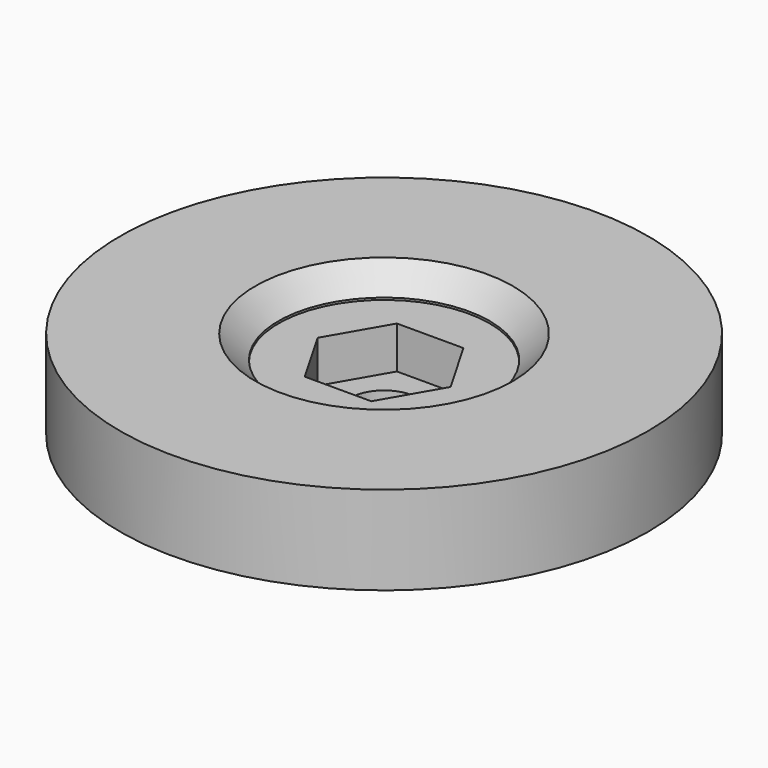
from build123d import *

# Parameters (mm, degrees)
BOX031_W          = 40
BOX031_H          = 50
BOX031_DEPTH      = 1.4
CYLINDER070_R     = 5
CYLINDER070_DEPTH = 22.75
CYLINDER069_R     = 1.6
CYLINDER069_DEPTH = 22.75
BOX029_W          = 40
BOX029_H          = 50
BOX029_DEPTH      = 10
BOX030_W          = 40
BOX030_H          = 50
BOX030_DEPTH      = 2.3
CYLINDER067_R     = 12.5
CYLINDER067_DEPTH = 7
BOX028_W          = 40
BOX028_H          = 50
BOX028_DEPTH      = 0.7
CYLINDER066_R     = 4
CYLINDER066_DEPTH = 2.75
CYLINDER064_R     = 1.6
CYLINDER064_DEPTH = 22.75
CYLINDER063_R     = 4
CYLINDER063_DEPTH = 2.75
PRISM009_DEPTH    = 3
CYLINDER065_R     = 12.5
CYLINDER065_DEPTH = 7
CHAMFER001_SIZE   = 2.4


with BuildPart() as cube031:
    # Box031 → Box031 (new body)
    with BuildSketch(Plane(origin=(-10, 0, 22.2), x_dir=(1, 0, 0), z_dir=(0, 0, 1))):
        with Locations((20, 25)):
            Rectangle(BOX031_W, BOX031_H)
    extrude(amount=BOX031_DEPTH)


with BuildPart() as cylinder071:
    # Cylinder070 → Cylinder070 (new body)
    with BuildSketch(Plane(origin=(10, 20, 21), x_dir=(1, 0, 0), z_dir=(0, 0, 1))):
        Circle(CYLINDER070_R)
    extrude(amount=CYLINDER070_DEPTH)


with BuildPart() as cylinder070:
    # Cylinder069 → Cylinder069 (new body)
    with BuildSketch(Plane(origin=(10, 20, 12), x_dir=(1, 0, 0), z_dir=(0, 0, 1))):
        Circle(CYLINDER069_R)
    extrude(amount=CYLINDER069_DEPTH)


with BuildPart() as cube029:
    # Box029 → Box029 (new body)
    with BuildSketch(Plane(origin=(-10, 0, 23.5), x_dir=(1, 0, 0), z_dir=(0, 0, 1))):
        with Locations((20, 25)):
            Rectangle(BOX029_W, BOX029_H)
    extrude(amount=BOX029_DEPTH)


with BuildPart() as cube030:
    # Box030 → Box030 (new body)
    with BuildSketch(Plane(origin=(-10, 0, 15.7), x_dir=(1, 0, 0), z_dir=(0, 0, 1))):
        with Locations((20, 25)):
            Rectangle(BOX030_W, BOX030_H)
    extrude(amount=BOX030_DEPTH)


with BuildPart() as cylinder068:
    # Cylinder067 → Cylinder067 (new body)
    with BuildSketch(Plane(origin=(10, 20, 21.5), x_dir=(1, 0, 0), z_dir=(0, 0, 1))):
        Circle(CYLINDER067_R)
    extrude(amount=CYLINDER067_DEPTH)


with BuildPart() as cube028:
    # Box028 → Box028 (new body)
    with BuildSketch(Plane(origin=(-10, 0, 15), x_dir=(1, 0, 0), z_dir=(0, 0, 1))):
        with Locations((20, 25)):
            Rectangle(BOX028_W, BOX028_H)
    extrude(amount=BOX028_DEPTH)


with BuildPart() as cylinder067:
    # Cylinder066 → Cylinder066 (new body)
    with BuildSketch(Plane(origin=(10, 20, 15.2), x_dir=(1, 0, 0), z_dir=(0, 0, 1))):
        Circle(CYLINDER066_R)
    extrude(amount=CYLINDER066_DEPTH)


with BuildPart() as cylinder063:
    # Cylinder064 → Cylinder064 (new body)
    with BuildSketch(Plane(origin=(10, 0, -31), x_dir=(1, 0, 0), z_dir=(0, 0, 1))):
        Circle(CYLINDER064_R)
    extrude(amount=CYLINDER064_DEPTH)


with BuildPart() as cylinder065:
    # Cylinder063 → Cylinder063 (new body)
    with BuildSketch(Plane(origin=(10, 0, -27), x_dir=(1, 0, 0), z_dir=(0, 0, 1))):
        Circle(CYLINDER063_R)
    extrude(amount=CYLINDER063_DEPTH)


with BuildPart() as prism009:
    # Prism009 → Prism009 (new body)
    with BuildSketch(Plane(origin=(10, 0, -20), x_dir=(1, 0, 0), z_dir=(0, 0, -1))):
        Polygon((3.15, 0), (1.575, 2.72798), (-1.575, 2.72798), (-3.15, 0), (-1.575, -2.72798), (1.575, -2.72798), align=None)
    extrude(amount=PRISM009_DEPTH)


with BuildPart() as obj1:
    # Cylinder065 → Cylinder065 (new body)
    with BuildSketch(Plane(origin=(10, 0, -27), x_dir=(1, 0, 0), z_dir=(0, 0, 1))):
        Circle(CYLINDER065_R)
    extrude(amount=CYLINDER065_DEPTH)

    # Cut051: cut Prism009
    add(prism009.part, mode=Mode.SUBTRACT)

    # Cut052: cut Cylinder065
    add(cylinder065.part, mode=Mode.SUBTRACT)

    # Cut053: cut Cylinder063
    add(cylinder063.part, mode=Mode.SUBTRACT)


with BuildPart() as obj1_1:
    # Cut053 placement: moved
    add(obj1.part.moved(Location((0, 20, 42))))

    # Cut055: cut Cylinder067
    add(cylinder067.part, mode=Mode.SUBTRACT)

    # Cut054: cut Cube028
    add(cube028.part, mode=Mode.SUBTRACT)

    # Fusion024: union Cylinder068
    add(cylinder068.part)

    # Cut056: cut Cube030
    add(cube030.part, mode=Mode.SUBTRACT)

    # Cut057: cut Cube029
    add(cube029.part, mode=Mode.SUBTRACT)

    # Cut058: cut Cylinder070
    add(cylinder070.part, mode=Mode.SUBTRACT)

    # Cut059: cut Cylinder071
    add(cylinder071.part, mode=Mode.SUBTRACT)

    # Chamfer001
    chamfer001_edges = [obj1_1.edges().sort_by_distance(p)[0] for p in [
        (5, 20, 23.5),
    ]]
    chamfer(chamfer001_edges, length=CHAMFER001_SIZE)

    # Cut060: cut Cube031
    add(cube031.part, mode=Mode.SUBTRACT)


solid = obj1_1.part
